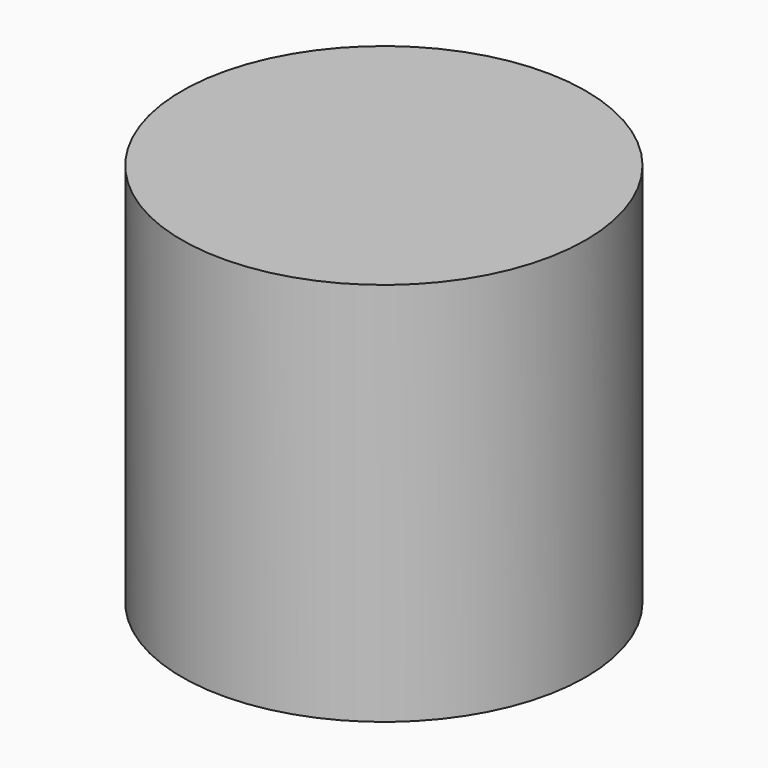
from build123d import *

# Parameters (mm, degrees)
SKETCH_R          = 11
PAD_DEPTH         = 5
SKETCH001_R       = 11
PAD001_DEPTH      = 3
SKETCH002_R       = 4.2
PAD002_DEPTH      = 8
SKETCH003_W       = 25.13587
SKETCH003_H       = 8
POCKET_DEPTH      = 11.001
POCKET_DEPTH_BACK = -11.001


with BuildPart() as part:
    # Sketch → Pad (new body)
    with BuildSketch(Plane.XY):
        Circle(SKETCH_R)
        with BuildLine():
            ThreePointArc((-2.683282, 3.1), (0, -4.1), (2.683282, 3.1))
            Line((2.683282, 3.1), (-2.683282, 3.1))
        make_face(mode=Mode.SUBTRACT)
    extrude(amount=-PAD_DEPTH)

    # Sketch001 → Pad001 (join)
    with BuildSketch(Plane.XY.offset(3)):
        Circle(SKETCH001_R)
    extrude(amount=-PAD001_DEPTH)

    # Sketch002 → Pad002 (join)
    with BuildSketch(Plane.XY.offset(11)):
        with Locations((0, 4)):
            Circle(SKETCH002_R)
    extrude(amount=-PAD002_DEPTH)

    # Sketch003 → Pocket (cut, two sides)
    with BuildSketch(Plane.XZ) as pocket_sk:
        with Locations((0.504129, -1)):
            Rectangle(SKETCH003_W, SKETCH003_H)
    extrude(amount=-POCKET_DEPTH, mode=Mode.SUBTRACT)
    extrude(pocket_sk.sketch, amount=-POCKET_DEPTH_BACK, mode=Mode.SUBTRACT)


solid = part.part
